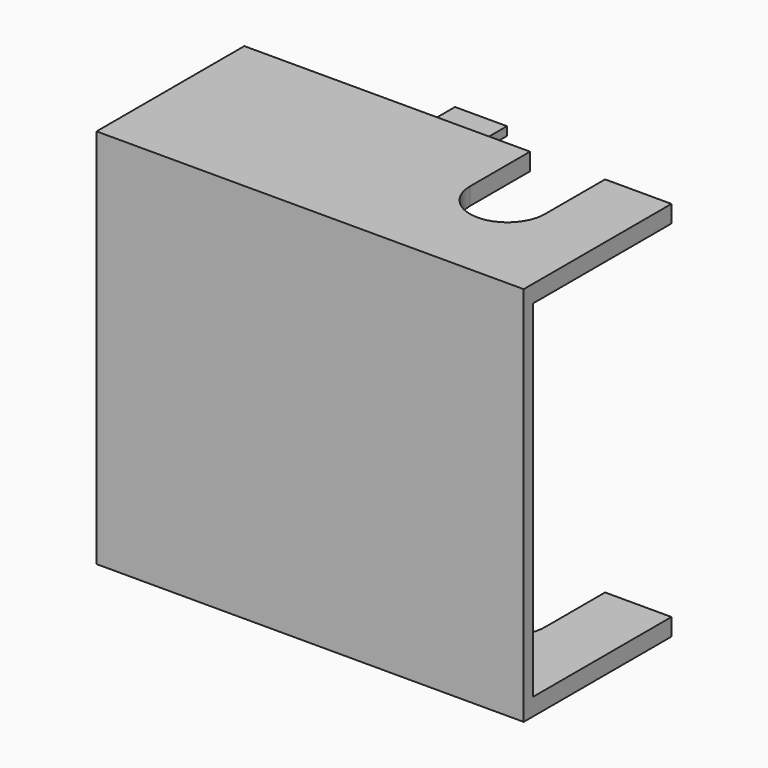
from build123d import *

# Parameters (mm, degrees)
F0_W      = 74
F0_H      = 32
F1_DEPTH  = 3
F2_W      = 74
F2_H      = 2
F3_DEPTH  = 60
F4_W      = 74
F4_H      = 32
F5_DEPTH  = 3
F6_W      = 9
F6_H      = 1.5
F7_DEPTH  = 5
F8_W      = 9
F8_H      = 1.5
F9_DEPTH  = 5
F11_DEPTH = 66


with BuildPart() as f1:
    # F0 (on Top) → F1 (new body)
    with BuildSketch(Plane.XY):
        Rectangle(F0_W, F0_H)
    extrude(amount=F1_DEPTH)

    # F2 (on face) → F3 (join)
    with BuildSketch(Plane(origin=(0, 0, 0), x_dir=(1, 0, 0), z_dir=(0, 0, -1))):
        with Locations((0, 15)):
            Rectangle(F2_W, F2_H)
    extrude(amount=F3_DEPTH)

    # F4 (on face) → F5 (join)
    with BuildSketch(Plane(origin=(0, 0, -60), x_dir=(1, 0, 0), z_dir=(0, 0, -1))):
        Rectangle(F4_W, F4_H)
    extrude(amount=F5_DEPTH)

    # F6 (on face) → F7 (join)
    with BuildSketch(Plane(origin=(0, 16, 0), x_dir=(-1, 0, 0), z_dir=(0, 1, 0))):
        with Locations((0, 1.5)):
            Rectangle(F6_W, F6_H)
    extrude(amount=F7_DEPTH)

    # F8 (on face) → F9 (join)
    with BuildSketch(Plane(origin=(0, 16, 0), x_dir=(-1, 0, 0), z_dir=(0, 1, 0))):
        with Locations((0, -61.5)):
            Rectangle(F8_W, F8_H)
    extrude(amount=F9_DEPTH)

    # F10 (on face) → F11 (cut, through all)
    with BuildSketch(Plane.XY.offset(3)):
        with BuildLine():
            Line((12.5, 16), (12.5, 3))
            ThreePointArc((12.5, 3), (19, -3.5), (25.5, 3))
            Line((25.5, 3), (25.5, 16))
            Line((25.5, 16), (12.5, 16))
        make_face()
    extrude(amount=-F11_DEPTH, mode=Mode.SUBTRACT)


solid = f1.part
